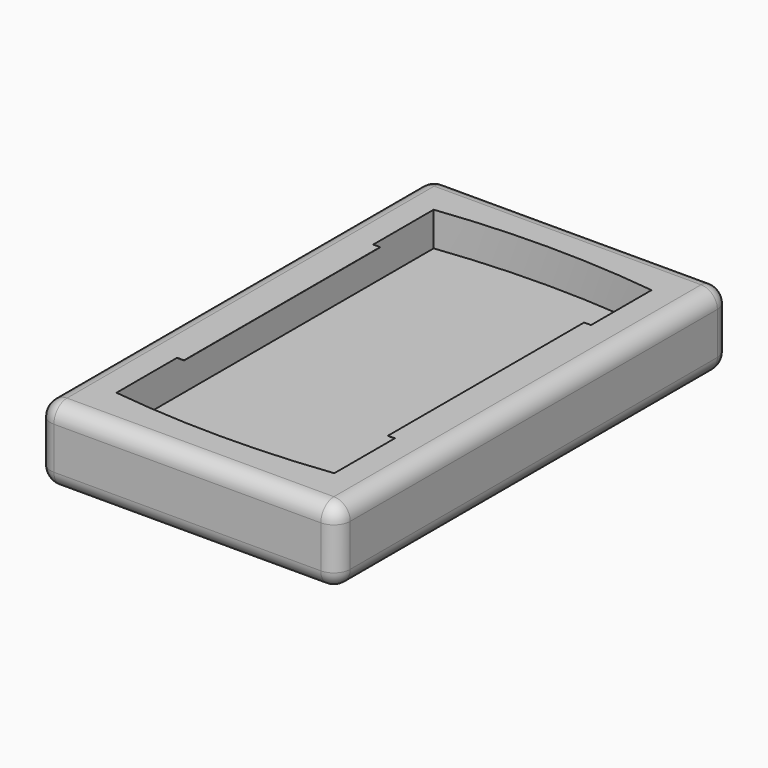
from build123d import *

# Parameters (mm, degrees)
F1_DEPTH = 12.7
F0_W     = 93.1164
F0_H     = 152.805166
F2_DEPTH = 23.2918
F3_R     = 5.08
F4_W     = 76.2
F4_H     = 0.0508
F5_DEPTH = 2.159
F6_W     = 76.2
F6_H     = 0.0508
F7_DEPTH = 2.159
F9_DEPTH = 0.762


with BuildPart() as f1:
    # F0 (on Top) → F1 (new body)
    with BuildSketch(Plane.XY):
        with BuildLine():
            Line((33.8582, -61.6204), (33.8582, 61.6204))
            ThreePointArc((33.8582, 61.6204), (0, 63.702583), (-33.8582, 61.6204))
            Line((-33.8582, 61.6204), (-33.8582, -61.6204))
            ThreePointArc((-33.8582, -61.6204), (0, -63.702583), (33.8582, -61.6204))
        make_face()
    extrude(amount=F1_DEPTH)

    # F0 (on Top) → F2 (join)
    with BuildSketch(Plane.XY):
        Rectangle(F0_W, F0_H)
        with BuildLine():
            ThreePointArc((-33.8582, 61.6204), (0, 63.702583), (33.8582, 61.6204))
            Line((33.8582, 61.6204), (33.8582, -61.6204))
            ThreePointArc((33.8582, -61.6204), (0, -63.702583), (-33.8582, -61.6204))
            Line((-33.8582, -61.6204), (-33.8582, 61.6204))
        make_face(mode=Mode.SUBTRACT)
    extrude(amount=F2_DEPTH)

    # F3
    f3_edges = [f1.edges().sort_by_distance(p)[0] for p in [
        (46.5582, 76.402583, 11.6459),
        (-46.5582, 76.402583, 11.6459),
        (0, 76.402583, 0),
        (0, 76.402583, 23.2918),
        (46.5582, -76.402583, 11.6459),
        (46.5582, 0, 0),
        (46.5582, 0, 23.2918),
        (-46.5582, -76.402583, 11.6459),
        (-46.5582, 0, 0),
        (-46.5582, 0, 23.2918),
        (0, -76.402583, 0),
        (0, -76.402583, 23.2918),
    ]]
    fillet(f3_edges, radius=F3_R)

    # F4 (on face) → F5 (join)
    with BuildSketch(Plane.YZ.offset(-33.8582)):
        with Locations((0.031095, 23.2664)):
            Rectangle(F4_W, F4_H)
    extrude(amount=F5_DEPTH)

    # F6 (on face) → F7 (join)
    with BuildSketch(Plane(origin=(33.8582, 0, 0), x_dir=(0, -1, 0), z_dir=(-1, 0, 0))):
        with Locations((0, 23.2664)):
            Rectangle(F6_W, F6_H)
    extrude(amount=F7_DEPTH)

    # F8 (on face) → F9 (cut)
    with BuildSketch(Plane(origin=(0, 0, 0), x_dir=(1, 0, 0), z_dir=(0, 0, -1))):
        Polygon((19.130176, 25.956985), (15.853872, 16.507866), (17.391561, 16.507866), (18.704301, 16.507866), (21.059638, 15.241836), (22.346409, 14.337672), (23.733582, 14.998754), (25.536845, 16.432133), (26.773585, 18.808471), (27.273366, 21.174196), (27.273366, 22.01752), (26.966814, 22.765817), (26.109291, 24.388824), (24.655878, 25.964028), (23.062924, 26.787417), (21.8115, 27.173994), (20.444673, 27.173994), (19.665156, 26.664633), align=None)
        Polygon((18.023439, 14.152837), (15.01883, 14.152837), (14.560411, 13.18039), (13.729755, 10.881932), (13.111546, 8.008962), (13.111546, 6.976141), (13.996444, 5.973769), (18.697398, 2.485608), (20.033419, 3.281474), (21.40595, 4.468145), (22.113048, 5.231297), (22.676123, 6.420105), (22.955874, 7.660022), (22.876425, 9.202257), (22.544574, 10.488553), (21.969916, 11.674766), (21.250803, 12.53761), (20.178357, 13.393388), (19.056518, 13.986301), align=None)
        Polygon((22.661129, 2.441654), (21.115223, 1.069205), (29.486876, -4.616232), (29.988099, -4.616232), (30.569512, -4.715682), (31.206602, -4.472099), (31.938352, -3.973992), (32.627203, -3.049886), (33.570245, -1.364986), (33.95775, 0.759628), (33.67446, 2.975369), (32.746591, 4.424694), (31.587344, 5.483917), (29.709965, 6.507007), (28.069582, 6.968596), (26.489634, 7.128672), (24.59624, 6.906962), (24.59624, 5.324597), (23.997623, 4.10175), align=None)
        Polygon((8.575084, -7.942976), (8.175002, -8.075641), (7.924996, -8.414997), (7.561846, -8.908933), (5.627635, -14.84977), (6.07139, -15.331484), (6.748223, -15.924085), (7.436918, -16.489215), (8.284996, -16.993792), (8.904658, -17.195541), (9.836856, -17.499045), (10.703146, -17.650633), (11.320556, -17.567808), (12.238844, -17.370679), (12.704939, -17.128573), (13.541533, -16.75655), (14.154789, -16.311272), (14.768045, -15.865995), (15.380789, -15.185673), (15.755296, -14.817428), (16.227027, -14.005282), (16.496923, -13.443844), (16.620971, -12.573184), (16.620971, -11.592824), (16.620971, -10.941146), (16.403735, -9.978523), (16.079577, -9.148708), (15.725626, -8.321666), (15.404956, -7.750581), (9.15718, -7.750581), align=None)
        Polygon((28.255338, -7.856285), (18.323598, -7.694297), (18.380865, -8.26294), (18.72969, -9.145414), (18.72969, -10.290054), (18.72969, -12.125288), (18.377202, -13.40854), (17.981764, -14.26531), (17.976763, -14.614258), (18.399578, -15.025881), (18.930003, -15.509484), (19.47213, -15.91), (20.095844, -16.323421), (20.812849, -16.666664), (21.898016, -17.07813), (22.628769, -17.263729), (25.629973, -17.263729), (26.375391, -17.09185), (27.33284, -16.633745), (28.376881, -15.839597), (29.008895, -14.940309), (29.602621, -13.860093), (29.939879, -12.824246), (30.126706, -11.797655), (30.126706, -9.895994), (29.983193, -9.068891), (29.404819, -8.507755), (28.886667, -8.146005), align=None)
        Polygon((3.629762, -3.573961), (5.503892, -4.396868), (5.301612, -2.360052), (6.822486, -4.900025), (24.316574, -4.900025), (11.075703, 4.85851), (10.046526, 5.22342), (9.507163, 5.203929), (7.188822, 4.036006), (8.626958, 5.582707), (8.425905, 5.653993), (6.649371, 5.947196), (9.321241, 6.441608), (9.989063, 7.425186), (15.174663, 23.502925), (1.998727, 13.983751), (1.007506, 12.478649), (1.308637, 9.8225), (0.323392, 11.542908), (-0.598677, 9.79147), (-0.423426, 12.638782), (-1.554111, 13.900222), (-2.533733, 14.768975), (-3.954105, 15.743133), (-14.623484, 23.323456), (-10.718632, 10.831495), (-10.232057, 9.17932), (-9.709259, 7.978873), (-8.859833, 6.513214), (-6.098148, 5.798374), (-8.048999, 5.463821), (-6.718127, 3.994369), (-9.150559, 5.103006), (-10.888585, 4.626437), (-24.019159, -4.955211), (-7.125907, -5.001777), (-5.983902, -4.671263), (-4.686613, -2.283718), (-4.9578, -4.063745), (-4.952259, -4.276991), (-3.03632, -3.38834), (-4.864587, -5.231217), (-5.050098, -5.738047), (-5.021732, -6.829634), (0.158228, -22.441093), (5.574114, -5.806452), align=None)
        with BuildLine():
            Line((1.654181, 16.962819), (6.324173, 20.534746))
            ThreePointArc((6.324173, 20.534746), (0.175712, 26.569324), (-5.774723, 20.339394))
            Line((-5.774723, 20.339394), (-0.915002, 16.999476))
            Line((-0.915002, 16.999476), (0.371497, 16.291821))
            Line((0.371497, 16.291821), (1.654181, 16.962819))
        make_face()
        Polygon((8.535719, 22.224076), (8.661439, 22.224076), (16.143631, 28.067235), (16.827697, 29.175729), (16.821695, 29.987806), (16.466266, 30.883452), (15.414766, 32.294761), (14.375922, 33.204187), (12.724878, 34.172721), (10.534994, 34.471944), (9.112393, 34.30083), (7.357949, 33.286188), (6.005914, 32.038126), (5.268869, 31.079488), (4.780219, 29.91179), (4.310874, 28.552404), (4.310874, 27.335983), (5.039969, 26.956297), (6.025833, 26.196726), (6.741204, 25.489375), (7.505697, 24.670502), (8.106733, 23.217265), align=None)
        Polygon((-8.224428, 22.228841), (-7.968573, 22.228841), (-7.476185, 23.251982), (-6.740252, 24.601845), (-5.726104, 25.934169), (-4.674518, 26.683589), (-3.544562, 27.288282), (-3.644838, 28.495155), (-3.941224, 29.748926), (-4.536292, 30.801155), (-5.420408, 31.978503), (-6.422264, 33.058017), (-7.382949, 33.728726), (-9.426758, 34.385487), (-11.01984, 34.385487), (-11.748054, 34.236316), (-13.026055, 33.686414), (-14.288102, 32.810491), (-15.340891, 31.867854), (-16.024087, 30.942382), (-16.286284, 30.193998), (-16.286284, 28.830871), (-15.847523, 28.183568), align=None)
        Polygon((11.914063, -20.603669), (11.618429, -19.949587), (11.357925, -19.420112), (11.024572, -19.316839), (10.087472, -19.427608), (8.758138, -19.365506), (7.013065, -18.797347), (5.92466, -18.442985), (5.193529, -17.838097), (4.670552, -17.607601), (1.749876, -27.101564), (1.829914, -27.79157), (2.01348, -28.396258), (2.367994, -29.119937), (3.110034, -29.512457), (4.91827, -30.10118), (5.952265, -30.241347), (7.041634, -30.24134), (8.252589, -30.0112), (9.303358, -29.68864), (10.381709, -28.941747), (11.113719, -28.173156), (11.507923, -27.51757), (12.437047, -24.663809), (12.486795, -23.911498), (12.431494, -22.752259), (12.327087, -21.964217), (12.127068, -21.243156), align=None)
        Polygon((-1.952866, -28.329769), (-1.867435, -27.746131), (-1.712265, -27.269532), (-4.52666, -17.549041), (-6.310271, -18.594112), (-8.302567, -19.351009), (-9.650661, -19.541643), (-11.155287, -19.051769), (-11.952269, -20.783506), (-12.289184, -22.335391), (-12.358107, -24.038087), (-11.966485, -26.139966), (-11.318183, -27.57018), (-10.227314, -28.901152), (-8.208129, -29.856482), (-6.067929, -30.145761), (-4.173853, -29.770666), (-3.08189, -29.401745), (-2.381715, -28.860151), align=None)
        Polygon((-24.300654, 6.561515), (-25.457315, 6.938099), (-26.895219, 6.912656), (-28.156828, 6.809513), (-29.296548, 6.405456), (-30.901863, 5.506224), (-32.409806, 4.152088), (-33.012928, 2.85235), (-33.406358, 0.677416), (-32.996542, -1.192358), (-32.453404, -2.461709), (-31.436956, -3.898469), (-30.695347, -4.513715), (-29.925022, -4.770828), (-28.659211, -4.46354), (-20.786749, 0.842121), (-20.747828, 0.961665), (-21.559416, 1.67705), (-22.755188, 2.698458), (-23.297157, 3.678902), (-23.74829, 4.578113), (-24.165338, 5.750694), align=None)
        Polygon((-29.584369, -11.439114), (-29.294584, -13.208717), (-28.246719, -15.078386), (-26.968922, -16.396237), (-26.352291, -16.919389), (-25.550398, -17.180469), (-23.146172, -17.437631), (-20.503703, -16.997325), (-18.582483, -15.726403), (-17.524431, -14.612039), (-17.985812, -13.10857), (-18.460471, -10.477003), (-18.054067, -9.228755), (-17.578024, -7.76661), (-27.577219, -7.956662), (-28.415723, -8.246283), (-29.141386, -8.829814), (-29.564534, -10.129492), align=None)
        Polygon((-24.856651, 16.0468), (-24.040339, 15.155214), (-22.93992, 14.485241), (-21.823381, 14.016263), (-20.89858, 14.903504), (-19.860423, 15.671419), (-18.279589, 16.223278), (-16.768209, 16.505161), (-15.642897, 16.656611), (-15.563689, 16.899896), (-18.865887, 25.991972), (-19.345556, 26.609572), (-20.641715, 27.031574), (-21.434505, 27.013946), (-22.526017, 26.650825), (-23.74827, 25.941583), (-24.971871, 25.012709), (-25.890405, 23.967734), (-26.257691, 23.321477), (-26.750884, 21.806659), (-26.759118, 19.659936), (-26.418772, 18.538806), (-25.70245, 17.251969), align=None)
        Polygon((-13.92576, -15.992094), (-12.805392, -16.705858), (-11.36352, -17.258855), (-10.097912, -17.376706), (-8.793188, -17.209328), (-7.848622, -16.773229), (-6.295336, -15.835501), (-5.124958, -14.811503), (-6.986415, -9.261618), (-7.665592, -8.109875), (-8.647674, -7.790131), (-11.570888, -7.488543), (-14.013585, -7.566826), (-15.080177, -7.70167), (-16.010355, -10.558669), (-16.171825, -11.592552), (-15.955344, -12.842834), (-15.47362, -14.127528), (-14.875792, -15.078435), align=None)
        with BuildLine():
            Line((-18.456832, 2.541572), (-13.614632, 5.876327))
            Line((-13.614632, 5.876327), (-12.579501, 6.888266))
            Line((-12.579501, 6.888266), (-12.854111, 8.33064))
            Line((-12.854111, 8.33064), (-14.525455, 13.985599))
            ThreePointArc((-14.525455, 13.985599), (-22.29148, 10.256181), (-18.456832, 2.541572))
        make_face()
    extrude(amount=-F9_DEPTH, mode=Mode.SUBTRACT)


solid = f1.part
